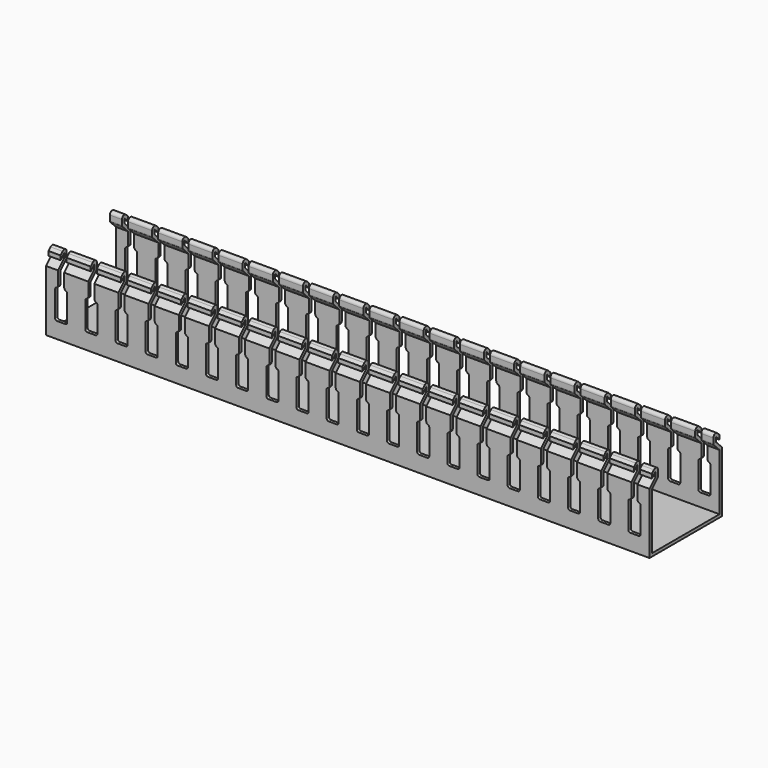
from build123d import *

# Parameters (mm, degrees)
PAD006_DEPTH           = 5
POCKET008_DEPTH        = 15.001
LINEARPATTERN003_COUNT = 20
LINEARPATTERN003_PITCH = 10


with BuildPart() as part:
    # Sketch044 → Pad006 (new body)
    with BuildSketch(Plane.YZ):
        with BuildLine():
            Line((-14, 22.737258), (-14, 24.151472))
            Line((-14, 24.151472), (-13.151472, 25))
            ThreePointArc((-11.444365, 24.292893), (-12.061682, 25.216773), (-13.151472, 25))
            Line((-11.444365, 24.292893), (-11.444365, 22.538346))
            ThreePointArc((-11.596606, 22.170804), (-11.483931, 22.339434), (-11.444365, 22.538346))
            Line((-11.596606, 22.170804), (-14, 19.76741))
            Line((-14, 19.76741), (-14, 1))
            Line((-14, 1), (0, 1))
            Line((0, 0), (0, 1))
            Line((-15, 0), (0, 0))
            Line((-15, 20.181623), (-15, 0))
            Line((-12.444365, 22.737258), (-15, 20.181623))
            Line((-12.444365, 24.292893), (-12.444365, 22.737258))
            Line((-14, 22.737258), (-12.444365, 24.292893))
        make_face()
    extrude(amount=PAD006_DEPTH)

    # Sketch045 (on Face11 of Pad006) → Pocket008 (cut, through all)
    with BuildSketch(Plane(origin=(0, -15, 0), x_dir=(0, 0, -1), z_dir=(0, -1, 0))):
        with BuildLine():
            Line((-25.292893, 0), (-25.292893, 1))
            Line((-25.292893, 1), (-15.864076, 1))
            ThreePointArc((-15.864076, 1), (-15.300861, 1.18134), (-14.949256, 1.657228))
            ThreePointArc((-14.472139, 2), (-14.765879, 1.905424), (-14.949256, 1.657228))
            Line((-14.472139, 2), (-5.938488, 2))
            ThreePointArc((-5.292893, 1.354406), (-5.481983, 1.81091), (-5.938488, 2))
            Line((-5.292893, 1.354406), (-5.292893, 0))
            Line((-5.292893, 0), (-25.292893, 0))
        make_face()
    extrude(amount=-POCKET008_DEPTH, mode=Mode.SUBTRACT)

    # Mirrored004: part across YZ


with BuildPart() as part_1:
    add(part.part)
    add(part.part.mirror(Plane.YZ))

    # Mirrored005: part across XZ


with BuildPart() as part_2:
    add(part_1.part)
    add(part_1.part.mirror(Plane.XZ))

    # LinearPattern003: part ×20


with BuildPart() as part_3:
    add(part_2.part)
    with Locations(*[(i * LINEARPATTERN003_PITCH, 0, 0) for i in range(1, LINEARPATTERN003_COUNT)]):
        add(part_2.part)


with BuildPart() as part_4:
    # Body006 placement: moved
    add(part_3.part.moved(Location((-153, 83, -7))))


solid = part_4.part
